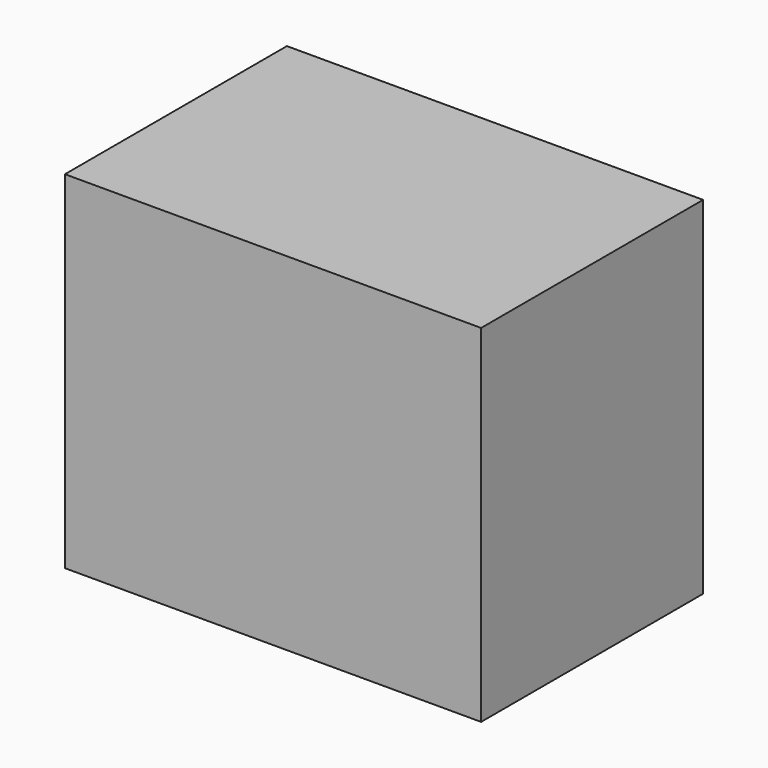
from build123d import *

# Parameters (mm, degrees)
F0_W     = 120
F0_H     = 80
F1_DEPTH = 100
F2_R     = 20.183378
F3_DEPTH = 80


with BuildPart() as f1:
    # F0 (on Top) → F1 (new body)
    with BuildSketch(Plane.XY):
        Rectangle(F0_W, F0_H)
    extrude(amount=F1_DEPTH)

    # F2 (on Top) → F3 (cut)
    with BuildSketch(Plane.XY):
        with Locations((25.038512, 0)):
            Circle(F2_R)
    extrude(amount=-F3_DEPTH, mode=Mode.SUBTRACT)


solid = f1.part
